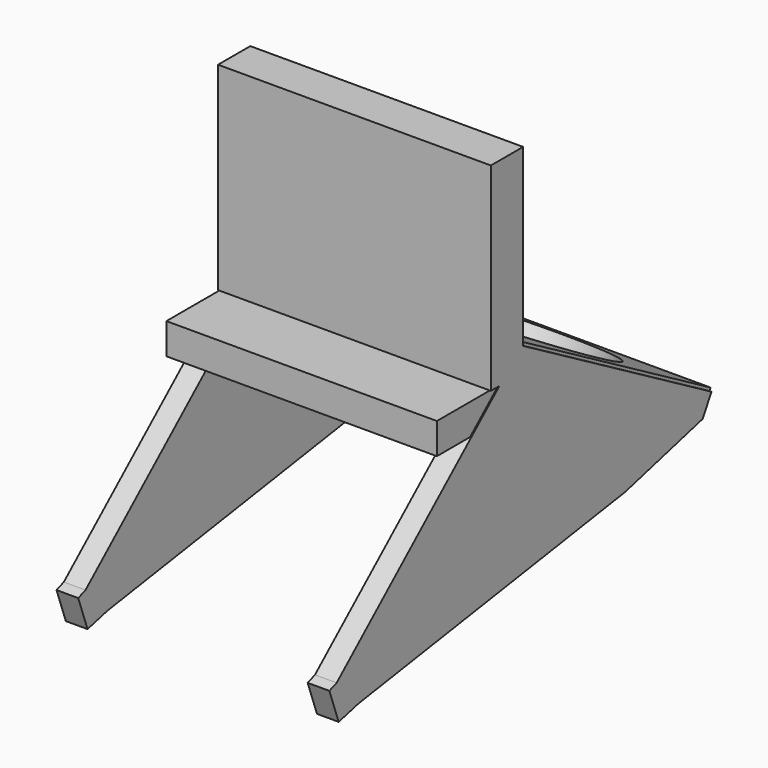
from build123d import *

# Parameters (mm, degrees)
EXTRUDE008_DEPTH                          = 7
EXTRUDE008_ONTO_SKETCH008_ROLL_ANGLE      = 90
EXTRUDE008_ONTO_SKETCH008_PITCH_ANGLE     = -30
EXTRUDE008_ONTO_SKETCH008_PLACEMENT_ANGLE = -90
SKETCH004_W                               = 87.248978
SKETCH004_H                               = 34.299007
EXTRUDE004_DEPTH                          = 10
EXTRUDE006_DEPTH                          = 7
EXTRUDE006_ONTO_SKETCH_ROLL_ANGLE         = 90
EXTRUDE006_ONTO_SKETCH_PITCH_ANGLE        = -30
EXTRUDE006_ONTO_SKETCH_PLACEMENT_ANGLE    = -90
SKETCH007_W                               = 88
SKETCH007_H                               = 88
SKETCH007_R                               = 38
EXTRUDE007_DEPTH                          = 7
EXTRUDE007_PLACEMENT_ANGLE                = 30
SKETCH005_W                               = 88
SKETCH005_H                               = 13
EXTRUDE005_DEPTH                          = 64


with BuildPart() as extrude008:
    # Sketch008 as drawn → Extrude008 (new)
    with BuildSketch(Plane.XY):
        Polygon((-123.305188, 6.070855), (-123.344503, -1.169558), (-100.406639, -23.66512), (-15.520081, -91.56636), (-9.4672, -97.367993), (-1.018409, -90.281281), (-3.036737, -87.875028), (-34.868234, 6.09489), align=None)
    extrude(amount=EXTRUDE008_DEPTH)


with BuildPart() as extrude008_1:
    # Extrude008 onto Sketch008 roll: moved
    add(extrude008.part.rotate(Axis((0, 0, 0), (1, 0, 0)), EXTRUDE008_ONTO_SKETCH008_ROLL_ANGLE))


with BuildPart() as extrude008_2:
    # Extrude008 onto Sketch008 pitch: moved
    add(extrude008_1.part.rotate(Axis((0, 0, 0), (0, 1, 0)), EXTRUDE008_ONTO_SKETCH008_PITCH_ANGLE))


with BuildPart() as extrude008_3:
    # Extrude008 onto Sketch008 placement: moved
    add(extrude008_2.part.moved(Location((42.577726, 14, 39))).rotate(Axis((42.577726, 14, 39), (0, 0, 1)), EXTRUDE008_ONTO_SKETCH008_PLACEMENT_ANGLE))


with BuildPart() as extrude008_4:
    # Extrude008 placement: moved
    add(extrude008_3.part.moved(Location((7, 0, 0))))


with BuildPart() as extrude004:
    # Sketch004 → Extrude004 (new body)
    with BuildSketch(Plane.XY):
        with Locations((83.604523, 30.688192)):
            Rectangle(SKETCH004_W, SKETCH004_H)
    extrude(amount=EXTRUDE004_DEPTH)


with BuildPart() as extrude004_1:
    # Extrude004 placement: moved
    add(extrude004.part.moved(Location((3, 0, 9))))


with BuildPart() as extrude006:
    # Sketch as drawn → Extrude006 (new)
    with BuildSketch(Plane.XY):
        Polygon((-123.305188, 6.070855), (-123.344503, -1.169558), (-100.406639, -23.66512), (-15.520081, -91.56636), (-9.4672, -97.367993), (-1.018409, -90.281281), (-3.036737, -87.875028), (-34.868234, 6.09489), align=None)
    extrude(amount=EXTRUDE006_DEPTH)


with BuildPart() as extrude006_1:
    # Extrude006 onto Sketch roll: moved
    add(extrude006.part.rotate(Axis((0, 0, 0), (1, 0, 0)), EXTRUDE006_ONTO_SKETCH_ROLL_ANGLE))


with BuildPart() as extrude006_2:
    # Extrude006 onto Sketch pitch: moved
    add(extrude006_1.part.rotate(Axis((0, 0, 0), (0, 1, 0)), EXTRUDE006_ONTO_SKETCH_PITCH_ANGLE))


with BuildPart() as extrude006_3:
    # Extrude006 onto Sketch placement: moved
    add(extrude006_2.part.moved(Location((42.577726, 14, 39))).rotate(Axis((42.577726, 14, 39), (0, 0, 1)), EXTRUDE006_ONTO_SKETCH_PLACEMENT_ANGLE))


with BuildPart() as extrude006_4:
    # Extrude006 placement: moved
    add(extrude006_3.part.moved(Location((88, 0, 0))))


with BuildPart() as extrude007:
    # Sketch007 → Extrude007 (new body)
    with BuildSketch(Plane.XY):
        with Locations((83.189821, 78.875904)):
            Rectangle(SKETCH007_W, SKETCH007_H)
        with Locations((83.189821, 78.875904)):
            Circle(SKETCH007_R, mode=Mode.SUBTRACT)
    extrude(amount=EXTRUDE007_DEPTH)


with BuildPart() as extrude007_1:
    # Extrude007 placement: moved
    add(extrude007.part.moved(Location((3, 14, 39))).rotate(Axis((3, 14, 39), (-1, 0, 0)), EXTRUDE007_PLACEMENT_ANGLE))


with BuildPart() as suporte2:
    # Sketch005 → Extrude005 (new body)
    with BuildSketch(Plane.XY):
        with Locations((83.577726, 41.368692)):
            Rectangle(SKETCH005_W, SKETCH005_H)
    extrude(amount=EXTRUDE005_DEPTH)


with BuildPart() as suporte2_1:
    # Extrude005 placement: moved
    add(suporte2.part.moved(Location((3, 0, 19))))

    # Fusion: union Extrude008, Extrude004, Extrude006, Extrude007
    add(extrude008_4.part)
    add(extrude004_1.part)
    add(extrude006_4.part)
    add(extrude007_1.part)


solid = suporte2_1.part
